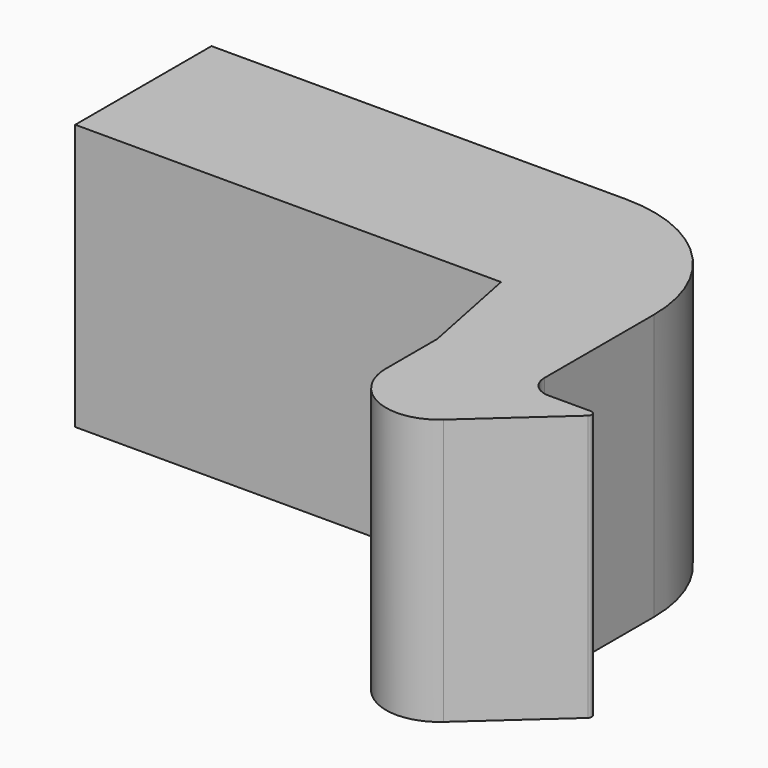
from build123d import *

# Parameters (mm, degrees)
F1_DEPTH = 12.5


with BuildPart() as f1:
    # F0 (on Top) → F1 (new body)
    with BuildSketch(Plane.XY):
        with BuildLine():
            Line((0, 8), (0, 0))
            Line((0, 0), (20, 0))
            Line((20, 0), (21, -5))
            Line((21, -5), (21, -8))
            ThreePointArc((21, -8), (22.484724, -10.28456), (25.175371, -9.855568))
            Line((25.175371, -9.855568), (29.114077, -6.299355))
            ThreePointArc((29.114077, -6.299355), (29.166714, -6.079108), (28.980047, -5.95091))
            Line((28.980047, -5.95091), (27, -5.95091))
            ThreePointArc((27, -5.95091), (26.292893, -5.658016), (26, -4.95091))
            Line((26, -4.95091), (26, 1.486624))
            ThreePointArc((26, 1.486624), (24.092276, 6.092276), (19.486624, 8))
            Line((19.486624, 8), (0, 8))
        make_face()
    extrude(amount=F1_DEPTH)


solid = f1.part
